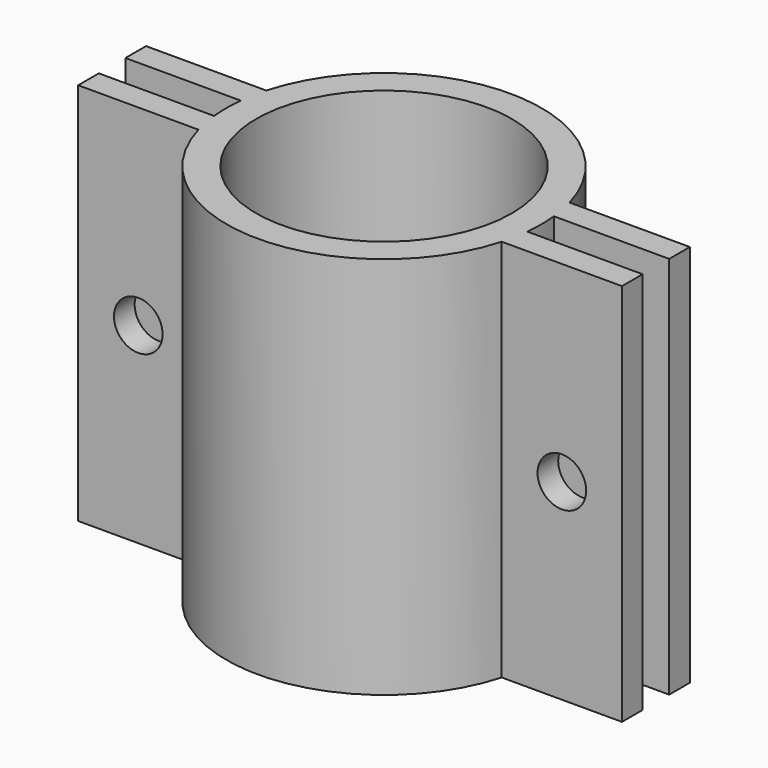
from build123d import *

# Parameters (mm, degrees)
SKETCH_R     = 50.8
PAD_DEPTH    = 152.4
SKETCH001_R  = 9.652
POCKET_DEPTH = 79.402154


with BuildPart() as part:
    # Sketch → Pad (new body)
    with BuildSketch(Plane(origin=(0, 0, -76.2), x_dir=(1, 0, 0), z_dir=(0, 0, -1))):
        with BuildLine():
            ThreePointArc((62.205505, -6.599598), (62.554612, 0), (62.205505, 6.599598))
            Line((62.205505, 6.599598), (108.01374, 6.599598))
            Line((108.01374, 6.599598), (108.01374, 16.846542))
            Line((108.01374, 16.846542), (60.243452, 16.846542))
            ThreePointArc((60.243452, 16.846542), (0, 62.554612), (-60.243452, 16.846542))
            Line((-108.01374, 16.846542), (-60.243452, 16.846542))
            Line((-108.01374, 6.599598), (-108.01374, 16.846542))
            Line((-62.205505, 6.599598), (-108.01374, 6.599598))
            ThreePointArc((-62.205505, 6.599598), (-62.554612, 0), (-62.205505, -6.599598))
            Line((-62.205505, -6.599598), (-108.01374, -6.599598))
            Line((-108.01374, -6.599598), (-108.01374, -16.846542))
            Line((-108.01374, -16.846542), (-60.243452, -16.846542))
            ThreePointArc((-60.243452, -16.846542), (0, -62.554612), (60.243452, -16.846542))
            Line((108.01374, -16.846542), (60.243452, -16.846542))
            Line((108.01374, -6.599598), (108.01374, -16.846542))
            Line((62.205505, -6.599598), (108.01374, -6.599598))
        make_face()
        Circle(SKETCH_R, mode=Mode.SUBTRACT)
    extrude(amount=PAD_DEPTH)

    # Sketch001 → Pocket (cut, through all)
    with BuildSketch(Plane(origin=(0, -16.846542, -76.2), x_dir=(-1, 0, 0), z_dir=(0, -1, 0))):
        with Locations((-84.128596, 76.2)):
            Circle(SKETCH001_R)
        with Locations((84.128596, 76.2)):
            Circle(SKETCH001_R)
    extrude(amount=-POCKET_DEPTH, mode=Mode.SUBTRACT)


solid = part.part
